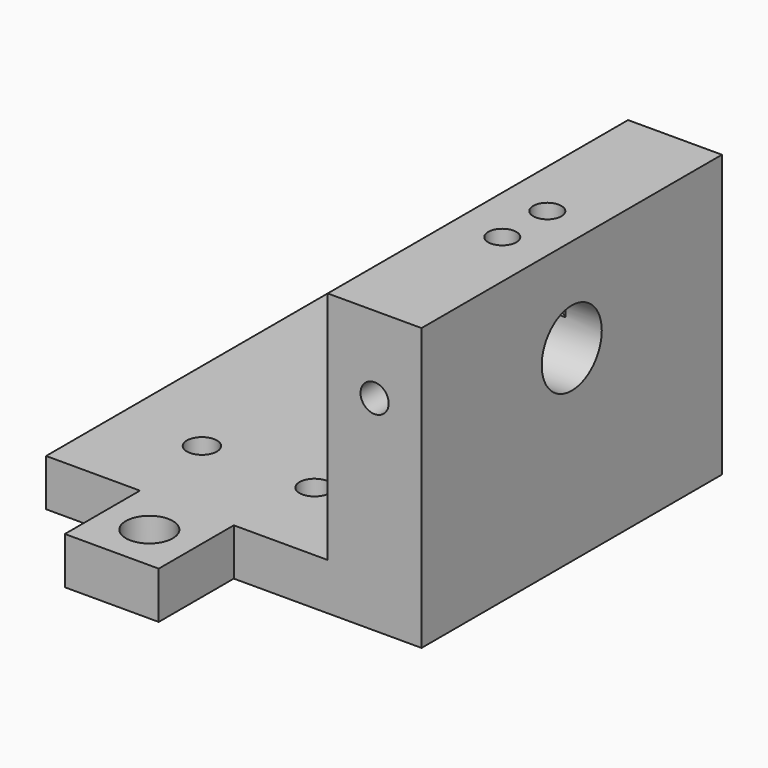
from build123d import *

# Parameters (mm, degrees)
F0_W      = 10
F0_H      = 5
F1_DEPTH  = 20
F2_DEPTH  = 30
F3_R      = 2.5
F3_R_2    = 1.6
F4_DEPTH  = 25
F5_R      = 4
F6_DEPTH  = 8
F7_R      = 1.5
F8_DEPTH  = 60
F9_R      = 1.5
F10_DEPTH = 10


with BuildPart() as f1:
    # F0 (on Front) → F1 (new body, symmetric)
    with BuildSketch(Plane.XZ):
        Polygon((5, -15), (25, -15), (25, 15), (15, 15), (15, -10), (5, -10), align=None)
        with Locations((0, -12.5)):
            Rectangle(F0_W, F0_H)
        with Locations((-10, -12.5)):
            Rectangle(F0_W, F0_H)
    extrude(amount=F1_DEPTH, both=True)

    # F0 (on Front) → F2 (join, symmetric)
    with BuildSketch(Plane.XZ):
        with Locations((0, -12.5)):
            Rectangle(F0_W, F0_H)
    extrude(amount=F2_DEPTH, both=True)

    # F3 (on face) → F4 (cut)
    with BuildSketch(Plane(origin=(0, 0, -15), x_dir=(1, 0, 0), z_dir=(0, 0, -1))):
        with Locations((0, 25)):
            Circle(F3_R)
        with Locations((-6, 10.5)):
            Circle(F3_R_2)
        with Locations((6, 10.5)):
            Circle(F3_R_2)
        with Locations((6, -10.5)):
            Circle(F3_R_2)
        with Locations((-6, -10.5)):
            Circle(F3_R_2)
        with Locations((0, -25)):
            Circle(F3_R)
    extrude(amount=-F4_DEPTH, mode=Mode.SUBTRACT)

    # F5 (on face) → F6 (cut)
    with BuildSketch(Plane.YZ.offset(25)):
        with Locations((0, 5)):
            Circle(F5_R)
    extrude(amount=-F6_DEPTH, mode=Mode.SUBTRACT)

    # F7 (on face) → F8 (cut)
    with BuildSketch(Plane.XZ.offset(20)):
        with Locations((20, 6.8)):
            Circle(F7_R)
    extrude(amount=-F8_DEPTH, mode=Mode.SUBTRACT)

    # F9 (on face) → F10 (cut)
    with BuildSketch(Plane.XY.offset(15)):
        with Locations((20, -3)):
            Circle(F9_R)
        with Locations((20, 3)):
            Circle(F9_R)
    extrude(amount=-F10_DEPTH, mode=Mode.SUBTRACT)


solid = f1.part
